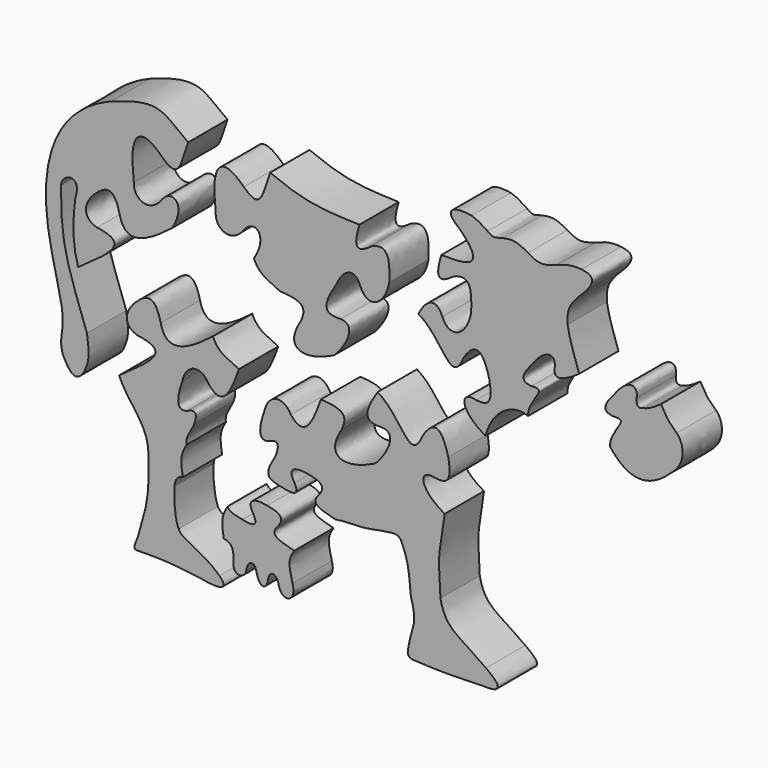
from build123d import *

# Parameters (mm, degrees)
F1_DEPTH  = 12
F3_DEPTH  = 12
F5_DEPTH  = 12
F7_DEPTH  = 12
F9_DEPTH  = 12
F11_DEPTH = 12
F13_DEPTH = 12


with BuildPart() as f1:
    # F0 (on Front) → F1 (new body)
    with BuildSketch(Plane.XZ):
        with BuildLine():
            add(Edge.make_bspline(
                [(-32.591876, 40.871967), (-20.340303, 45.404341), (-20.127848, 42.571608), (-13.825014, 38.180869)],
                knots=[0, 0, 0, 0, 18.958826, 18.958826, 18.958826, 18.958826], degree=3))
            add(Edge.make_bspline(
                [(-47.049105, 3.470468), (-50.407838, 18.192166), (-49.175963, 34.256779), (-32.591876, 40.871967)],
                knots=[0, 0, 0, 0, 40.098424, 40.098424, 40.098424, 40.098424], degree=3))
            add(Edge.make_bspline(
                [(-44.453334, -11.075119), (-44.179726, -6.511881), (-46.183848, -1.378061), (-47.049105, 3.470468)],
                knots=[0, 0, 0, 0, 14.775389, 14.775389, 14.775389, 14.775389], degree=3))
            add(Edge.make_bspline(
                [(-44.453334, -17.334634), (-45.045134, -15.059617), (-44.885792, -14.652411), (-44.453334, -11.075119)],
                knots=[0, 0, 0, 0, 6.259516, 6.259516, 6.259516, 6.259516], degree=3))
            add(Edge.make_bspline(
                [(-39.245415, -19.437833), (-41.448765, -22.943161), (-43.101277, -19.938594), (-44.453334, -17.334634)],
                knots=[0, 0, 0, 0, 5.61657, 5.61657, 5.61657, 5.61657], degree=3))
            add(Edge.make_bspline(
                [(-38.541947, -10.846151), (-37.542827, -16.433265), (-38.494274, -17.53494), (-39.245415, -19.437833)],
                knots=[0, 0, 0, 0, 8.620433, 8.620433, 8.620433, 8.620433], degree=3))
            add(Edge.make_bspline(
                [(-44.889782, 18.823463), (-44.934653, 5.252286), (-43.105889, 2.161999), (-38.541947, -10.846151)],
                knots=[0, 0, 0, 0, 30.341078, 30.341078, 30.341078, 30.341078], degree=3))
            add(Edge.make_bspline(
                [(-41.36686, 17.191522), (-39.558198, 22.799533), (-44.640929, 21.798009), (-44.889782, 18.823463)],
                knots=[0, 0, 0, 0, 3.882552, 3.882552, 3.882552, 3.882552], degree=3))
            add(Edge.make_bspline(
                [(-40.687684, 2.61875), (-41.777801, 6.218898), (-42.273529, 10.397181), (-41.36686, 17.191522)],
                knots=[0, 0, 0, 0, 14.58859, 14.58859, 14.58859, 14.58859], degree=3))
            add(Edge.make_bspline(
                [(-40.687684, 2.61875), (-33.014379, 8.047308), (-27.70631, 11.50256), (-36.069024, 12.654312)],
                knots=[0, 0, 0, 0, 11.047377, 11.047377, 11.047377, 11.047377], degree=3))
            add(Edge.make_bspline(
                [(-36.069024, 12.654312), (-38.580935, 13.274091), (-40.280577, 15.788142), (-36.881298, 19.435287)],
                knots=[0, 0, 0, 0, 6.829451, 6.829451, 6.829451, 6.829451], degree=3))
            add(Edge.make_bspline(
                [(-36.881298, 19.435287), (-34.331836, 21.87852), (-31.994831, 23.294887), (-30.543055, 17.20451)],
                knots=[0, 0, 0, 0, 6.719351, 6.719351, 6.719351, 6.719351], degree=3))
            add(Edge.make_bspline(
                [(-30.543055, 17.20451), (-29.055873, 10.983787), (-23.998182, 13.637822), (-17.790155, 18.440684)],
                knots=[0, 0, 0, 0, 12.812673, 12.812673, 12.812673, 12.812673], degree=3))
            add(Edge.make_bspline(
                [(-17.790155, 18.440684), (-14.002006, 24.467701), (-17.87602, 27.41532), (-20.570984, 23.330763)],
                knots=[0, 0, 0, 0, 5.625467, 5.625467, 5.625467, 5.625467], degree=3))
            add(Edge.make_bspline(
                [(-20.570984, 23.330763), (-23.729147, 19.667294), (-27.308399, 22.151714), (-27.097855, 25.267769)],
                knots=[0, 0, 0, 0, 6.808233, 6.808233, 6.808233, 6.808233], degree=3))
            add(Edge.make_bspline(
                [(-27.097855, 25.267769), (-28.724108, 38.035963), (-24.386898, 37.193786), (-20.260232, 33.025011)],
                knots=[0, 0, 0, 0, 10.340595, 10.340595, 10.340595, 10.340595], degree=3))
            add(Edge.make_bspline(
                [(-20.260232, 33.025011), (-15.912833, 28.86576), (-15.771195, 32.866996), (-13.825014, 38.180869)],
                knots=[0, 0, 0, 0, 8.245901, 8.245901, 8.245901, 8.245901], degree=3))
        make_face()
    extrude(amount=F1_DEPTH)


with BuildPart() as f1_1:
    # F2: moved
    add(f1.part.moved(Location((-20, 0, -90))))


with BuildPart() as f3:
    # F0 (on Front) → F3 (new body)
    with BuildSketch(Plane.XZ):
        with BuildLine():
            add(Edge.make_bspline(
                [(-13.825014, 38.180869), (-4.814303, 34.419883), (-1.058592, 34.419883), (7.955112, 34.069352)],
                knots=[0, 0, 0, 0, 22.164802, 22.164802, 22.164802, 22.164802], degree=3))
            add(Edge.make_bspline(
                [(-20.260232, 33.025011), (-15.912833, 28.86576), (-15.771195, 32.866996), (-13.825014, 38.180869)],
                knots=[0, 0, 0, 0, 8.245901, 8.245901, 8.245901, 8.245901], degree=3))
            add(Edge.make_bspline(
                [(-27.097855, 25.267769), (-28.724108, 38.035963), (-24.386898, 37.193786), (-20.260232, 33.025011)],
                knots=[0, 0, 0, 0, 10.340595, 10.340595, 10.340595, 10.340595], degree=3))
            add(Edge.make_bspline(
                [(-20.570984, 23.330763), (-23.729147, 19.667294), (-27.308399, 22.151714), (-27.097855, 25.267769)],
                knots=[0, 0, 0, 0, 6.808233, 6.808233, 6.808233, 6.808233], degree=3))
            add(Edge.make_bspline(
                [(-17.790155, 18.440684), (-14.002006, 24.467701), (-17.87602, 27.41532), (-20.570984, 23.330763)],
                knots=[0, 0, 0, 0, 5.625467, 5.625467, 5.625467, 5.625467], degree=3))
            add(Edge.make_bspline(
                [(-11.44309, 13.471254), (-14.535207, 15.085584), (-16.287873, 15.185736), (-17.790155, 18.440684)],
                knots=[0, 0, 0, 0, 8.061047, 8.061047, 8.061047, 8.061047], degree=3))
            add(Edge.make_bspline(
                [(-6.342493, 8.71596), (-4.782964, 12.069123), (-5.984792, 13.220874), (-11.44309, 13.471254)],
                knots=[0, 0, 0, 0, 6.973443, 6.973443, 6.973443, 6.973443], degree=3))
            add(Edge.make_bspline(
                [(1.739212, 3.974282), (-5.055306, 0.487356), (-10.91232, 1.371374), (-6.342493, 8.71596)],
                knots=[0, 0, 0, 0, 9.37003, 9.37003, 9.37003, 9.37003], degree=3))
            add(Edge.make_bspline(
                [(3.406637, 12.311407), (8.28981, 12.013653), (3.236251, 5.161169), (1.739212, 3.974282)],
                knots=[0, 0, 0, 0, 8.502233, 8.502233, 8.502233, 8.502233], degree=3))
            add(Edge.make_bspline(
                [(2.396375, 19.568147), (-2.072045, 12.728264), (0.309991, 12.251857), (3.406637, 12.311407)],
                knots=[0, 0, 0, 0, 7.326725, 7.326725, 7.326725, 7.326725], degree=3))
            add(Edge.make_bspline(
                [(8.228344, 20.893229), (6.775695, 24.494881), (4.122838, 23.357943), (2.396375, 19.568147)],
                knots=[0, 0, 0, 0, 5.98061, 5.98061, 5.98061, 5.98061], degree=3))
            add(Edge.make_bspline(
                [(15.247812, 24.086129), (14.123882, 18.153889), (9.836217, 16.784217), (8.228344, 20.893229)],
                knots=[0, 0, 0, 0, 7.71152, 7.71152, 7.71152, 7.71152], degree=3))
            add(Edge.make_bspline(
                [(10.891189, 30.395722), (16.199259, 32.899529), (15.14766, 25.938947), (15.247812, 24.086129)],
                knots=[0, 0, 0, 0, 7.667538, 7.667538, 7.667538, 7.667538], degree=3))
            add(Edge.make_bspline(
                [(7.955112, 34.069352), (6.484489, 29.24397), (6.935174, 27.44123), (10.891189, 30.395722)],
                knots=[0, 0, 0, 0, 4.702776, 4.702776, 4.702776, 4.702776], degree=3))
        make_face()
    extrude(amount=F3_DEPTH)


with BuildPart() as f3_1:
    # F4: moved
    add(f3.part.moved(Location((0, 0, -90))))


with BuildPart() as f5:
    # F0 (on Front) → F5 (new body)
    with BuildSketch(Plane.XZ):
        with BuildLine():
            add(Edge.make_bspline(
                [(7.955112, 34.069352), (16.918741, 33.818971), (17.619805, 35.721865), (12.636672, 40.933732)],
                knots=[0, 0, 0, 0, 8.308834, 8.308834, 8.308834, 8.308834], degree=3))
            add(Edge.make_bspline(
                [(7.955112, 34.069352), (6.484489, 29.24397), (6.935174, 27.44123), (10.891189, 30.395722)],
                knots=[0, 0, 0, 0, 4.702776, 4.702776, 4.702776, 4.702776], degree=3))
            add(Edge.make_bspline(
                [(10.891189, 30.395722), (16.199259, 32.899529), (15.14766, 25.938947), (15.247812, 24.086129)],
                knots=[0, 0, 0, 0, 7.667538, 7.667538, 7.667538, 7.667538], degree=3))
            add(Edge.make_bspline(
                [(15.247812, 24.086129), (14.123882, 18.153889), (9.836217, 16.784217), (8.228344, 20.893229)],
                knots=[0, 0, 0, 0, 7.71152, 7.71152, 7.71152, 7.71152], degree=3))
            add(Edge.make_bspline(
                [(8.228344, 20.893229), (6.775695, 24.494881), (4.122838, 23.357943), (2.396375, 19.568147)],
                knots=[0, 0, 0, 0, 5.98061, 5.98061, 5.98061, 5.98061], degree=3))
            add(Edge.make_bspline(
                [(2.396375, 19.568147), (8.424079, 16.030855), (10.270156, 6.38361), (13.366803, 13.708371)],
                knots=[0, 0, 0, 0, 12.437333, 12.437333, 12.437333, 12.437333], degree=3))
            add(Edge.make_bspline(
                [(13.366803, 13.708371), (16.397702, 18.595887), (18.238978, 16.542155), (19.655345, 11.230779)],
                knots=[0, 0, 0, 0, 6.759011, 6.759011, 6.759011, 6.759011], degree=3))
            add(Edge.make_bspline(
                [(19.655345, 11.230779), (20.626243, 5.843652), (19.256689, 5.374418), (16.457798, 5.672172)],
                knots=[0, 0, 0, 0, 6.412676, 6.412676, 6.412676, 6.412676], degree=3))
            add(Edge.make_bspline(
                [(16.457798, 5.672172), (12.08644, 6.711506), (12.572989, 2.147797), (18.773455, -1.272742)],
                knots=[0, 0, 0, 0, 7.320799, 7.320799, 7.320799, 7.320799], degree=3))
            add(Edge.make_bspline(
                [(29.094143, 6.317046), (26.310937, 7.822768), (20.626243, 5.843652), (18.773455, -1.272742)],
                knots=[0, 0, 0, 0, 12.810991, 12.810991, 12.810991, 12.810991], degree=3))
            add(Edge.make_bspline(
                [(30.278785, 9.724604), (29.526362, 8.459432), (29.225906, 8.09638), (29.094143, 6.317046)],
                knots=[0, 0, 0, 0, 3.607607, 3.607607, 3.607607, 3.607607], degree=3))
            add(Edge.make_bspline(
                [(29.938858, 13.042408), (33.494532, 13.327433), (30.933844, 11.451581), (30.278785, 9.724604)],
                knots=[0, 0, 0, 0, 3.335172, 3.335172, 3.335172, 3.335172], degree=3))
            add(Edge.make_bspline(
                [(31.251114, 19.21811), (28.211882, 15.722198), (26.39558, 13.340163), (29.938858, 13.042408)],
                knots=[0, 0, 0, 0, 6.313581, 6.313581, 6.313581, 6.313581], degree=3))
            add(Edge.make_bspline(
                [(35.63204, 18.844116), (35.988357, 21.597259), (33.903971, 22.144673), (31.251114, 19.21811)],
                knots=[0, 0, 0, 0, 4.396861, 4.396861, 4.396861, 4.396861], degree=3))
            add(Edge.make_bspline(
                [(37.187513, 17.162703), (35.419587, 16.54252), (35.596631, 18.100524), (35.63204, 18.844116)],
                knots=[0, 0, 0, 0, 2.290556, 2.290556, 2.290556, 2.290556], degree=3))
            add(Edge.make_bspline(
                [(41.588753, 19.464578), (40.235233, 18.560844), (39.031323, 17.604796), (37.187513, 17.162703)],
                knots=[0, 0, 0, 0, 4.966845, 4.966845, 4.966845, 4.966845], degree=3))
            add(Edge.make_bspline(
                [(38.759764, 29.148651), (39.419539, 25.184015), (40.645757, 22.692603), (41.588753, 19.464578)],
                knots=[0, 0, 0, 0, 10.088828, 10.088828, 10.088828, 10.088828], degree=3))
            add(Edge.make_bspline(
                [(40.140904, 34.435805), (39.236169, 33.198111), (38.596001, 32.141082), (38.759764, 29.148651)],
                knots=[0, 0, 0, 0, 5.464572, 5.464572, 5.464572, 5.464572], degree=3))
            add(Edge.make_bspline(
                [(43.661781, 38.261302), (42.488155, 36.986136), (41.042276, 35.712749), (40.140904, 34.435805)],
                knots=[0, 0, 0, 0, 5.199134, 5.199134, 5.199134, 5.199134], degree=3))
            add(Edge.make_bspline(
                [(42.227708, 42.103197), (45.715515, 41.678287), (44.954214, 40.031761), (43.661781, 38.261302)],
                knots=[0, 0, 0, 0, 4.10082, 4.10082, 4.10082, 4.10082], degree=3))
            add(Edge.make_bspline(
                [(35.973605, 40.99793), (39.110713, 42.240139), (40.209386, 42.244833), (42.227708, 42.103197)],
                knots=[0, 0, 0, 0, 6.351017, 6.351017, 6.351017, 6.351017], degree=3))
            add(Edge.make_bspline(
                [(29.103298, 41.400503), (31.720612, 39.882045), (32.58384, 39.818883), (35.973605, 40.99793)],
                knots=[0, 0, 0, 0, 6.882092, 6.882092, 6.882092, 6.882092], degree=3))
            add(Edge.make_bspline(
                [(22.969119, 42.585615), (25.776699, 43.190129), (26.808366, 42.684823), (29.103298, 41.400503)],
                knots=[0, 0, 0, 0, 6.24761, 6.24761, 6.24761, 6.24761], degree=3))
            add(Edge.make_bspline(
                [(19.276965, 42.853594), (20.974165, 41.69235), (20.735962, 42.049658), (22.969119, 42.585615)],
                knots=[0, 0, 0, 0, 3.701866, 3.701866, 3.701866, 3.701866], degree=3))
            add(Edge.make_bspline(
                [(15.31683, 44.937875), (17.520213, 44.223264), (17.95692, 43.548354), (19.276965, 42.853594)],
                knots=[0, 0, 0, 0, 4.475143, 4.475143, 4.475143, 4.475143], degree=3))
            add(Edge.make_bspline(
                [(12.636672, 40.933732), (7.902743, 44.521019), (11.029166, 45.652486), (15.31683, 44.937875)],
                knots=[0, 0, 0, 0, 4.818341, 4.818341, 4.818341, 4.818341], degree=3))
        make_face()
    extrude(amount=F5_DEPTH)


with BuildPart() as f5_1:
    # F6: moved
    add(f5.part.moved(Location((20, 0, -90))))


with BuildPart() as f7:
    # F0 (on Front) → F7 (new body)
    with BuildSketch(Plane.XZ):
        with BuildLine():
            add(Edge.make_bspline(
                [(30.278785, 9.724604), (29.526362, 8.459432), (29.225906, 8.09638), (29.094143, 6.317046)],
                knots=[0, 0, 0, 0, 3.607607, 3.607607, 3.607607, 3.607607], degree=3))
            add(Edge.make_bspline(
                [(44.483364, 5.879393), (39.327394, 0.828625), (34.228474, -0.339878), (29.094143, 6.317046)],
                knots=[0, 0, 0, 0, 15.395443, 15.395443, 15.395443, 15.395443], degree=3))
            add(Edge.make_bspline(
                [(45.403399, 14.488366), (46.572506, 13.527775), (48.342962, 9.420311), (44.483364, 5.879393)],
                knots=[0, 0, 0, 0, 8.657994, 8.657994, 8.657994, 8.657994], degree=3))
            add(Edge.make_bspline(
                [(41.588753, 19.464578), (43.438219, 16.274892), (42.842712, 17.019277), (45.403399, 14.488366)],
                knots=[0, 0, 0, 0, 6.270105, 6.270105, 6.270105, 6.270105], degree=3))
            add(Edge.make_bspline(
                [(41.588753, 19.464578), (40.235233, 18.560844), (39.031323, 17.604796), (37.187513, 17.162703)],
                knots=[0, 0, 0, 0, 4.966845, 4.966845, 4.966845, 4.966845], degree=3))
            add(Edge.make_bspline(
                [(37.187513, 17.162703), (35.419587, 16.54252), (35.596631, 18.100524), (35.63204, 18.844116)],
                knots=[0, 0, 0, 0, 2.290556, 2.290556, 2.290556, 2.290556], degree=3))
            add(Edge.make_bspline(
                [(35.63204, 18.844116), (35.988357, 21.597259), (33.903971, 22.144673), (31.251114, 19.21811)],
                knots=[0, 0, 0, 0, 4.396861, 4.396861, 4.396861, 4.396861], degree=3))
            add(Edge.make_bspline(
                [(31.251114, 19.21811), (28.211882, 15.722198), (26.39558, 13.340163), (29.938858, 13.042408)],
                knots=[0, 0, 0, 0, 6.313581, 6.313581, 6.313581, 6.313581], degree=3))
            add(Edge.make_bspline(
                [(29.938858, 13.042408), (33.494532, 13.327433), (30.933844, 11.451581), (30.278785, 9.724604)],
                knots=[0, 0, 0, 0, 3.335172, 3.335172, 3.335172, 3.335172], degree=3))
        make_face()
    extrude(amount=F7_DEPTH)


with BuildPart() as f7_1:
    # F8: moved
    add(f7.part.moved(Location((40, 0, -90))))


with BuildPart() as f9:
    # F0 (on Front) → F9 (new body)
    with BuildSketch(Plane.XZ):
        with BuildLine():
            add(Edge.make_bspline(
                [(-11.44309, 13.471254), (-14.535207, 15.085584), (-16.287873, 15.185736), (-17.790155, 18.440684)],
                knots=[0, 0, 0, 0, 8.061047, 8.061047, 8.061047, 8.061047], degree=3))
            add(Edge.make_bspline(
                [(-30.543055, 17.20451), (-29.055873, 10.983787), (-23.998182, 13.637822), (-17.790155, 18.440684)],
                knots=[0, 0, 0, 0, 12.812673, 12.812673, 12.812673, 12.812673], degree=3))
            add(Edge.make_bspline(
                [(-36.881298, 19.435287), (-34.331836, 21.87852), (-31.994831, 23.294887), (-30.543055, 17.20451)],
                knots=[0, 0, 0, 0, 6.719351, 6.719351, 6.719351, 6.719351], degree=3))
            add(Edge.make_bspline(
                [(-36.069024, 12.654312), (-38.580935, 13.274091), (-40.280577, 15.788142), (-36.881298, 19.435287)],
                knots=[0, 0, 0, 0, 6.829451, 6.829451, 6.829451, 6.829451], degree=3))
            add(Edge.make_bspline(
                [(-40.687684, 2.61875), (-33.014379, 8.047308), (-27.70631, 11.50256), (-36.069024, 12.654312)],
                knots=[0, 0, 0, 0, 11.047377, 11.047377, 11.047377, 11.047377], degree=3))
            add(Edge.make_bspline(
                [(-33.542823, -12.281439), (-33.40029, -5.733504), (-38.350679, -2.940491), (-40.687684, 2.61875)],
                knots=[0, 0, 0, 0, 16.524668, 16.524668, 16.524668, 16.524668], degree=3))
            add(Edge.make_bspline(
                [(-36.08406, -30.504415), (-34.27662, -24.063976), (-33.189751, -22.130251), (-33.542823, -12.281439)],
                knots=[0, 0, 0, 0, 18.399313, 18.399313, 18.399313, 18.399313], degree=3))
            add(Edge.make_bspline(
                [(-33.652645, -33.52664), (-37.263107, -33.430979), (-37.642088, -34.357373), (-36.08406, -30.504415)],
                knots=[0, 0, 0, 0, 3.878869, 3.878869, 3.878869, 3.878869], degree=3))
            add(Edge.make_bspline(
                [(-20.649999, -34.542404), (-25.321962, -33.874925), (-29.280193, -33.474892), (-33.652645, -33.52664)],
                knots=[0, 0, 0, 0, 13.04226, 13.04226, 13.04226, 13.04226], degree=3))
            add(Edge.make_bspline(
                [(-16.190726, -32.455008), (-13.828367, -34.795057), (-15.807483, -35.468798), (-20.649999, -34.542404)],
                knots=[0, 0, 0, 0, 4.923651, 4.923651, 4.923651, 4.923651], degree=3))
            add(Edge.make_bspline(
                [(-26.193971, -25.676148), (-25.078429, -27.851814), (-20.369008, -28.48918), (-16.190726, -32.455008)],
                knots=[0, 0, 0, 0, 12.083785, 12.083785, 12.083785, 12.083785], degree=3))
            add(Edge.make_bspline(
                [(-27.200533, -16.854443), (-27.419401, -20.364581), (-26.942994, -23.788758), (-26.193971, -25.676148)],
                knots=[0, 0, 0, 0, 8.878944, 8.878944, 8.878944, 8.878944], degree=3))
            add(Edge.make_bspline(
                [(-25.137199, -14.201585), (-26.021484, -14.159476), (-26.968934, -14.917435), (-27.200533, -16.854443)],
                knots=[0, 0, 0, 0, 3.360803, 3.360803, 3.360803, 3.360803], degree=3))
            add(Edge.make_bspline(
                [(-24.217905, -6.912436), (-25.910698, -9.721528), (-25.612943, -11.061423), (-25.137199, -14.201585)],
                knots=[0, 0, 0, 0, 7.34689, 7.34689, 7.34689, 7.34689], degree=3))
            add(Edge.make_bspline(
                [(-24.217905, -6.912436), (-24.559211, -5.033638), (-22.946973, -3.499795), (-22.311507, -1.793474)],
                knots=[0, 0, 0, 0, 5.462429, 5.462429, 5.462429, 5.462429], degree=3))
            add(Edge.make_bspline(
                [(-22.311507, -1.793474), (-21.54541, 0.467834), (-21.958537, 1.506913), (-24.136851, 0.367681)],
                knots=[0, 0, 0, 0, 2.828864, 2.828864, 2.828864, 2.828864], degree=3))
            add(Edge.make_bspline(
                [(-24.136851, 0.367681), (-26.987689, -0.52926), (-26.511965, 3.001108), (-25.235025, 6.43613)],
                knots=[0, 0, 0, 0, 6.167014, 6.167014, 6.167014, 6.167014], degree=3))
            add(Edge.make_bspline(
                [(-25.235025, 6.43613), (-24.556899, 10.193252), (-20.888867, 11.639948), (-18.764317, 7.815758)],
                knots=[0, 0, 0, 0, 6.61615, 6.61615, 6.61615, 6.61615], degree=3))
            add(Edge.make_bspline(
                [(-18.764317, 7.815758), (-15.233949, 3.434096), (-13.28098, 8.291481), (-11.44309, 13.471254)],
                knots=[0, 0, 0, 0, 9.251217, 9.251217, 9.251217, 9.251217], degree=3))
        make_face()
    extrude(amount=F9_DEPTH)


with BuildPart() as f9_1:
    # F10: moved
    add(f9.part.moved(Location((-10, 0, -110))))


with BuildPart() as f11:
    # F0 (on Front) → F11 (new body)
    with BuildSketch(Plane.XZ):
        with BuildLine():
            add(Edge.make_bspline(
                [(2.396375, 19.568147), (8.424079, 16.030855), (10.270156, 6.38361), (13.366803, 13.708371)],
                knots=[0, 0, 0, 0, 12.437333, 12.437333, 12.437333, 12.437333], degree=3))
            add(Edge.make_bspline(
                [(2.396375, 19.568147), (-2.072045, 12.728264), (0.309991, 12.251857), (3.406637, 12.311407)],
                knots=[0, 0, 0, 0, 7.326725, 7.326725, 7.326725, 7.326725], degree=3))
            add(Edge.make_bspline(
                [(3.406637, 12.311407), (8.28981, 12.013653), (3.236251, 5.161169), (1.739212, 3.974282)],
                knots=[0, 0, 0, 0, 8.502233, 8.502233, 8.502233, 8.502233], degree=3))
            add(Edge.make_bspline(
                [(1.739212, 3.974282), (-5.055306, 0.487356), (-10.91232, 1.371374), (-6.342493, 8.71596)],
                knots=[0, 0, 0, 0, 9.37003, 9.37003, 9.37003, 9.37003], degree=3))
            add(Edge.make_bspline(
                [(-6.342493, 8.71596), (-4.782964, 12.069123), (-5.984792, 13.220874), (-11.44309, 13.471254)],
                knots=[0, 0, 0, 0, 6.973443, 6.973443, 6.973443, 6.973443], degree=3))
            add(Edge.make_bspline(
                [(-18.764317, 7.815758), (-15.233949, 3.434096), (-13.28098, 8.291481), (-11.44309, 13.471254)],
                knots=[0, 0, 0, 0, 9.251217, 9.251217, 9.251217, 9.251217], degree=3))
            add(Edge.make_bspline(
                [(-25.235025, 6.43613), (-24.556899, 10.193252), (-20.888867, 11.639948), (-18.764317, 7.815758)],
                knots=[0, 0, 0, 0, 6.61615, 6.61615, 6.61615, 6.61615], degree=3))
            add(Edge.make_bspline(
                [(-24.136851, 0.367681), (-26.987689, -0.52926), (-26.511965, 3.001108), (-25.235025, 6.43613)],
                knots=[0, 0, 0, 0, 6.167014, 6.167014, 6.167014, 6.167014], degree=3))
            add(Edge.make_bspline(
                [(-22.311507, -1.793474), (-21.54541, 0.467834), (-21.958537, 1.506913), (-24.136851, 0.367681)],
                knots=[0, 0, 0, 0, 2.828864, 2.828864, 2.828864, 2.828864], degree=3))
            add(Edge.make_bspline(
                [(-24.217905, -6.912436), (-24.559211, -5.033638), (-22.946973, -3.499795), (-22.311507, -1.793474)],
                knots=[0, 0, 0, 0, 5.462429, 5.462429, 5.462429, 5.462429], degree=3))
            add(Edge.make_bspline(
                [(-20.598609, -8.556212), (-22.952449, -8.103454), (-23.875488, -7.850362), (-24.217905, -6.912436)],
                knots=[0, 0, 0, 0, 3.975086, 3.975086, 3.975086, 3.975086], degree=3))
            add(Edge.make_bspline(
                [(-17.894497, -6.528129), (-16.867938, -8.431022), (-17.343661, -9.307355), (-20.598609, -8.556212)],
                knots=[0, 0, 0, 0, 3.38014, 3.38014, 3.38014, 3.38014], degree=3))
            add(Edge.make_bspline(
                [(-14.552425, -3.596543), (-18.169917, -2.897609), (-19.572048, -3.949208), (-17.894497, -6.528129)],
                knots=[0, 0, 0, 0, 4.445632, 4.445632, 4.445632, 4.445632], degree=3))
            add(Edge.make_bspline(
                [(-11.861327, -7.102051), (-9.418094, -4.056862), (-13.915059, -3.808998), (-14.552425, -3.596543)],
                knots=[0, 0, 0, 0, 4.419343, 4.419343, 4.419343, 4.419343], degree=3))
            add(Edge.make_bspline(
                [(-7.942576, -11.155073), (-12.60492, -10.041012), (-13.84424, -9.26201), (-11.861327, -7.102051)],
                knots=[0, 0, 0, 0, 5.637694, 5.637694, 5.637694, 5.637694], degree=3))
            add(Edge.make_bspline(
                [(0.132423, -10.529952), (-2.312517, -10.960323), (-5.021319, -10.659344), (-7.942576, -11.155073)],
                knots=[0, 0, 0, 0, 8.099159, 8.099159, 8.099159, 8.099159], degree=3))
            add(Edge.make_bspline(
                [(8.414134, -11.096935), (7.618804, -8.752249), (6.016369, -9.478353), (0.132423, -10.529952)],
                knots=[0, 0, 0, 0, 8.301097, 8.301097, 8.301097, 8.301097], degree=3))
            add(Edge.make_bspline(
                [(10.529975, -21.731138), (10.021371, -17.780861), (10.319125, -15.488151), (8.414134, -11.096935)],
                knots=[0, 0, 0, 0, 10.84265, 10.84265, 10.84265, 10.84265], degree=3))
            add(Edge.make_bspline(
                [(10.345847, -30.723859), (11.581575, -26.538447), (11.706765, -26.187913), (10.529975, -21.731138)],
                knots=[0, 0, 0, 0, 8.994605, 8.994605, 8.994605, 8.994605], degree=3))
            add(Edge.make_bspline(
                [(12.332195, -35.221331), (8.914147, -35.187393), (9.651051, -34.324165), (10.345847, -30.723859)],
                knots=[0, 0, 0, 0, 4.916588, 4.916588, 4.916588, 4.916588], degree=3))
            add(Edge.make_bspline(
                [(28.478779, -35.221331), (21.751037, -35.398379), (18.918302, -35.575423), (12.332195, -35.221331)],
                knots=[0, 0, 0, 0, 16.146583, 16.146583, 16.146583, 16.146583], degree=3))
            add(Edge.make_bspline(
                [(28.858475, -31.138388), (33.365246, -34.265283), (32.055106, -35.398379), (28.478779, -35.221331)],
                knots=[0, 0, 0, 0, 4.100559, 4.100559, 4.100559, 4.100559], degree=3))
            add(Edge.make_bspline(
                [(17.741742, -19.769002), (19.005006, -26.253762), (22.707084, -26.439857), (28.858475, -31.138388)],
                knots=[0, 0, 0, 0, 15.901092, 15.901092, 15.901092, 15.901092], degree=3))
            add(Edge.make_bspline(
                [(18.773455, -1.272742), (17.236436, -11.852539), (17.152218, -9.157573), (17.741742, -19.769002)],
                knots=[0, 0, 0, 0, 18.525012, 18.525012, 18.525012, 18.525012], degree=3))
            add(Edge.make_bspline(
                [(16.457798, 5.672172), (12.08644, 6.711506), (12.572989, 2.147797), (18.773455, -1.272742)],
                knots=[0, 0, 0, 0, 7.320799, 7.320799, 7.320799, 7.320799], degree=3))
            add(Edge.make_bspline(
                [(19.655345, 11.230779), (20.626243, 5.843652), (19.256689, 5.374418), (16.457798, 5.672172)],
                knots=[0, 0, 0, 0, 6.412676, 6.412676, 6.412676, 6.412676], degree=3))
            add(Edge.make_bspline(
                [(13.366803, 13.708371), (16.397702, 18.595887), (18.238978, 16.542155), (19.655345, 11.230779)],
                knots=[0, 0, 0, 0, 6.759011, 6.759011, 6.759011, 6.759011], degree=3))
        make_face()
    extrude(amount=F11_DEPTH)


with BuildPart() as f11_1:
    # F12: moved
    add(f11.part.moved(Location((10, 0, -110))))


with BuildPart() as f13:
    # F0 (on Front) → F13 (new body)
    with BuildSketch(Plane.XZ):
        with BuildLine():
            add(Edge.make_bspline(
                [(-20.598609, -8.556212), (-22.952449, -8.103454), (-23.875488, -7.850362), (-24.217905, -6.912436)],
                knots=[0, 0, 0, 0, 3.975086, 3.975086, 3.975086, 3.975086], degree=3))
            add(Edge.make_bspline(
                [(-24.217905, -6.912436), (-25.910698, -9.721528), (-25.612943, -11.061423), (-25.137199, -14.201585)],
                knots=[0, 0, 0, 0, 7.34689, 7.34689, 7.34689, 7.34689], degree=3))
            add(Edge.make_bspline(
                [(-22.772785, -18.645611), (-22.715941, -16.74917), (-22.673832, -14.285803), (-25.137199, -14.201585)],
                knots=[0, 0, 0, 0, 5.033867, 5.033867, 5.033867, 5.033867], degree=3))
            add(Edge.make_bspline(
                [(-19.635677, -19.129861), (-20.014657, -21.466903), (-23.025438, -21.235304), (-22.772785, -18.645611)],
                knots=[0, 0, 0, 0, 3.174263, 3.174263, 3.174263, 3.174263], degree=3))
            add(Edge.make_bspline(
                [(-17.131392, -18.856524), (-17.551288, -16.413841), (-19.214587, -16.708603), (-19.635677, -19.129861)],
                knots=[0, 0, 0, 0, 2.519158, 2.519158, 2.519158, 2.519158], degree=3))
            add(Edge.make_bspline(
                [(-14.331154, -19.530265), (-14.773296, -22.056796), (-16.457649, -21.783089), (-17.131392, -18.856524)],
                knots=[0, 0, 0, 0, 2.88015, 2.88015, 2.88015, 2.88015], degree=3))
            add(Edge.make_bspline(
                [(-11.760489, -19.708611), (-11.994112, -17.803803), (-13.931119, -16.751081), (-14.331154, -19.530265)],
                knots=[0, 0, 0, 0, 2.576844, 2.576844, 2.576844, 2.576844], degree=3))
            add(Edge.make_bspline(
                [(-8.36713, -18.329667), (-7.178523, -22.137305), (-10.909195, -23.464322), (-11.760489, -19.708611)],
                knots=[0, 0, 0, 0, 3.662837, 3.662837, 3.662837, 3.662837], degree=3))
            add(Edge.make_bspline(
                [(-7.942576, -11.155073), (-9.744223, -13.822814), (-9.093233, -14.924489), (-8.36713, -18.329667)],
                knots=[0, 0, 0, 0, 7.187145, 7.187145, 7.187145, 7.187145], degree=3))
            add(Edge.make_bspline(
                [(-7.942576, -11.155073), (-12.60492, -10.041012), (-13.84424, -9.26201), (-11.861327, -7.102051)],
                knots=[0, 0, 0, 0, 5.637694, 5.637694, 5.637694, 5.637694], degree=3))
            add(Edge.make_bspline(
                [(-11.861327, -7.102051), (-9.418094, -4.056862), (-13.915059, -3.808998), (-14.552425, -3.596543)],
                knots=[0, 0, 0, 0, 4.419343, 4.419343, 4.419343, 4.419343], degree=3))
            add(Edge.make_bspline(
                [(-14.552425, -3.596543), (-18.169917, -2.897609), (-19.572048, -3.949208), (-17.894497, -6.528129)],
                knots=[0, 0, 0, 0, 4.445632, 4.445632, 4.445632, 4.445632], degree=3))
            add(Edge.make_bspline(
                [(-17.894497, -6.528129), (-16.867938, -8.431022), (-17.343661, -9.307355), (-20.598609, -8.556212)],
                knots=[0, 0, 0, 0, 3.38014, 3.38014, 3.38014, 3.38014], degree=3))
        make_face()
    extrude(amount=F13_DEPTH)


with BuildPart() as f13_1:
    # F14: moved
    add(f13.part.moved(Location((0, 0, -120))))


solid = Compound([f1_1.part, f3_1.part, f5_1.part, f7_1.part, f9_1.part, f11_1.part, f13_1.part])
